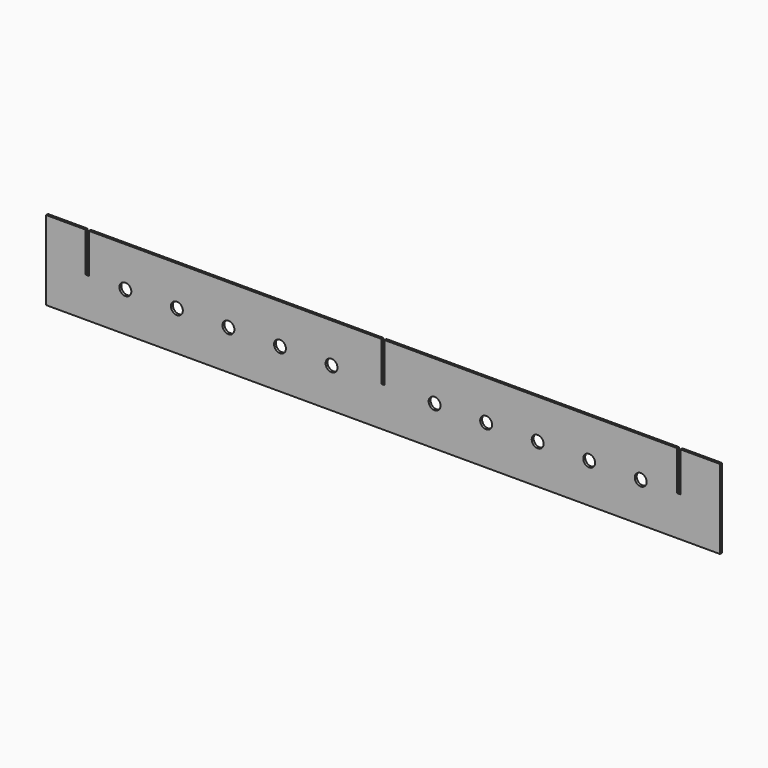
from build123d import *

# Parameters (mm, degrees)
F0_R     = 7.5
F1_DEPTH = 3


with BuildPart() as f1:
    # F0 (on Front) → F1 (new body)
    with BuildSketch(Plane.XZ):
        Polygon((-409.777922, -62.315632), (-459.777922, -62.315632), (-459.777922, -162.315632), (390.222078, -162.315632), (390.222078, -62.315632), (340.222078, -62.315632), (340.222078, -112.315632), (336.222078, -112.315632), (336.222078, -62.315632), (-32.777922, -62.315632), (-32.777922, -112.315632), (-36.777922, -112.315632), (-36.777922, -62.315632), (-405.777922, -62.315632), (-405.777922, -112.315632), (-409.777922, -112.315632), align=None)
        with Locations((-359.777922, -112.315632)):
            Circle(F0_R, mode=Mode.SUBTRACT)
        with Locations((-294.777922, -112.315632)):
            Circle(F0_R, mode=Mode.SUBTRACT)
        with Locations((-229.777922, -112.315632)):
            Circle(F0_R, mode=Mode.SUBTRACT)
        with Locations((-164.777922, -112.315632)):
            Circle(F0_R, mode=Mode.SUBTRACT)
        with Locations((-99.777922, -112.315632)):
            Circle(F0_R, mode=Mode.SUBTRACT)
        with Locations((30.222078, -112.315632)):
            Circle(F0_R, mode=Mode.SUBTRACT)
        with Locations((95.222078, -112.315632)):
            Circle(F0_R, mode=Mode.SUBTRACT)
        with Locations((160.222078, -112.315632)):
            Circle(F0_R, mode=Mode.SUBTRACT)
        with Locations((225.222078, -112.315632)):
            Circle(F0_R, mode=Mode.SUBTRACT)
        with Locations((290.222078, -112.315632)):
            Circle(F0_R, mode=Mode.SUBTRACT)
    extrude(amount=F1_DEPTH)


solid = f1.part
